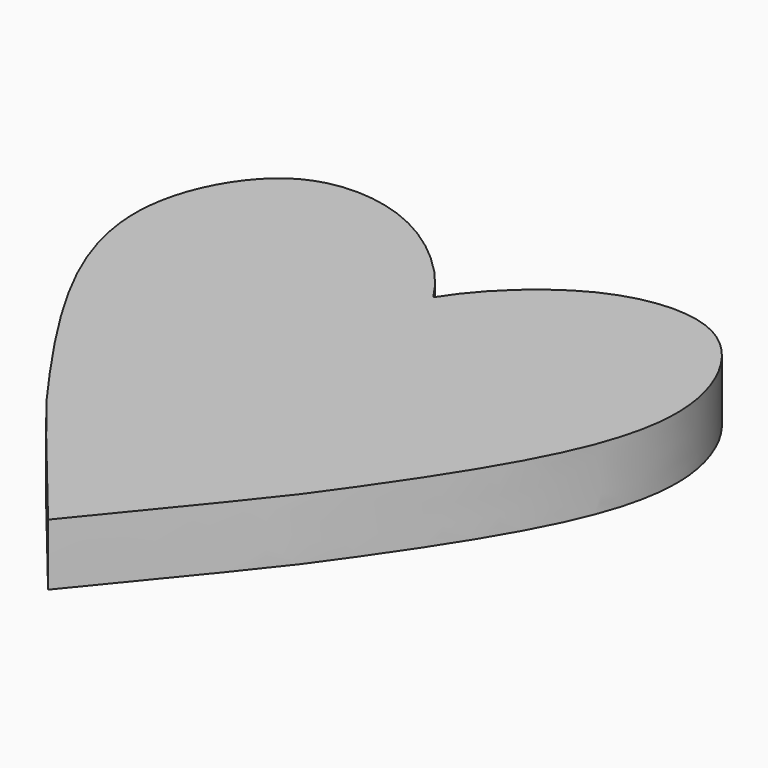
from build123d import *

# Parameters (mm, degrees)
F1_DEPTH = 9.56346


with BuildPart() as f1:
    # F0 (on Top) → F1 (new body)
    with BuildSketch(Plane.XY):
        with BuildLine():
            add(Edge.make_bspline(
                [(0, 27.9239229858), (2.2036899978, 31.4862701249), (8.5030332757, 38.2582858466), (19.7800174142, 44.3488910909), (34.3424811675, 43.7319037301), (44.4168513373, 26.3022102979), (38.9786242781, 4.962299578), (18.8635901923, -23.6923737644), (18.9255352303, -23.6176281893), (0, -46.7327870429)],
                knots=[0, 0, 0, 0, 0.1175361933, 0.2326335528, 0.3482035745, 0.4820895989, 0.6350254368, 0.8030453225, 1, 1, 1, 1], degree=3))
            Line((0, 27.9239229858), (0, -46.7327870429))
        make_face()
        with BuildLine():
            Line((0, -46.7327870429), (0, 27.9239229858))
            add(Edge.make_bspline(
                [(0, 27.9239229858), (-2.2036899978, 31.4862701249), (-8.5030332757, 38.2582858466), (-19.7800174142, 44.3488910909), (-34.3424811675, 43.7319037301), (-44.4168513373, 26.3022102979), (-38.9786242781, 4.962299578), (-18.8635901923, -23.6923737644), (-18.9255352303, -23.6176281893), (0, -46.7327870429)],
                knots=[0, 0, 0, 0, 0.1175361933, 0.2326335528, 0.3482035745, 0.4820895989, 0.6350254368, 0.8030453225, 1, 1, 1, 1], degree=3))
        make_face()
    extrude(amount=F1_DEPTH)


solid = f1.part
